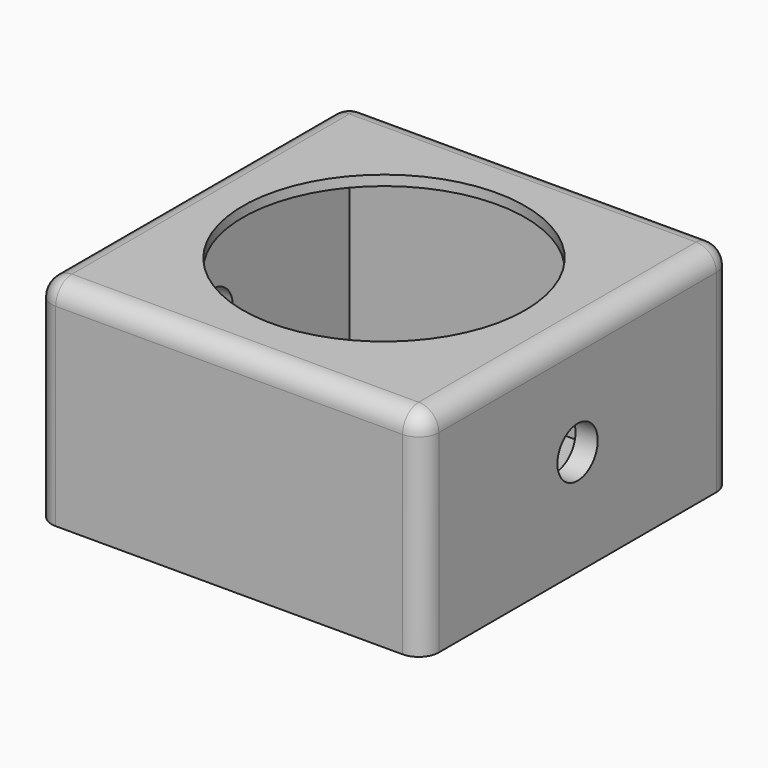
from build123d import *

# Parameters (mm, degrees)
SKETCH_W        = 19.2
SKETCH_H        = 19.2
PAD_DEPTH       = 10.6
SKETCH001_R     = 1.25
POCKET_DEPTH    = 19.201
SKETCH002_R     = 7
POCKET001_DEPTH = 0.5
SKETCH003_W     = 17
SKETCH003_H     = 17
POCKET002_DEPTH = 10
FILLET_R        = 1


with BuildPart() as part:
    # Sketch → Pad (new body)
    with BuildSketch(Plane.XY):
        Rectangle(SKETCH_W, SKETCH_H)
    extrude(amount=PAD_DEPTH)

    # Sketch001 (on Face2 of Pad) → Pocket (cut, through all)
    with BuildSketch(Plane.YZ.offset(9.6)):
        with Locations((0, 5.25)):
            Circle(SKETCH001_R)
    extrude(amount=-POCKET_DEPTH, mode=Mode.SUBTRACT)

    # Sketch002 (on Face5 of Pocket) → Pocket001 (cut)
    with BuildSketch(Plane.XY.offset(10.6)):
        Circle(SKETCH002_R)
    extrude(amount=-POCKET001_DEPTH, mode=Mode.SUBTRACT)

    # Sketch003 (on Face9 of Pocket001) → Pocket002 (cut)
    with BuildSketch(Plane.XY.offset(10.1)):
        Rectangle(SKETCH003_W, SKETCH003_H)
    extrude(amount=-POCKET002_DEPTH, mode=Mode.SUBTRACT)

    # Fillet
    fillet_edges = [part.edges().sort_by_distance(p)[0] for p in [
        (9.6, -9.6, 5.3),
        (-9.6, -9.6, 5.3),
        (9.6, 9.6, 5.3),
        (-9.6, 9.6, 5.3),
        (0, -9.6, 10.6),
        (-9.6, 0, 10.6),
        (0, 9.6, 10.6),
        (9.6, 0, 10.6),
    ]]
    fillet(fillet_edges, radius=FILLET_R)


solid = part.part
